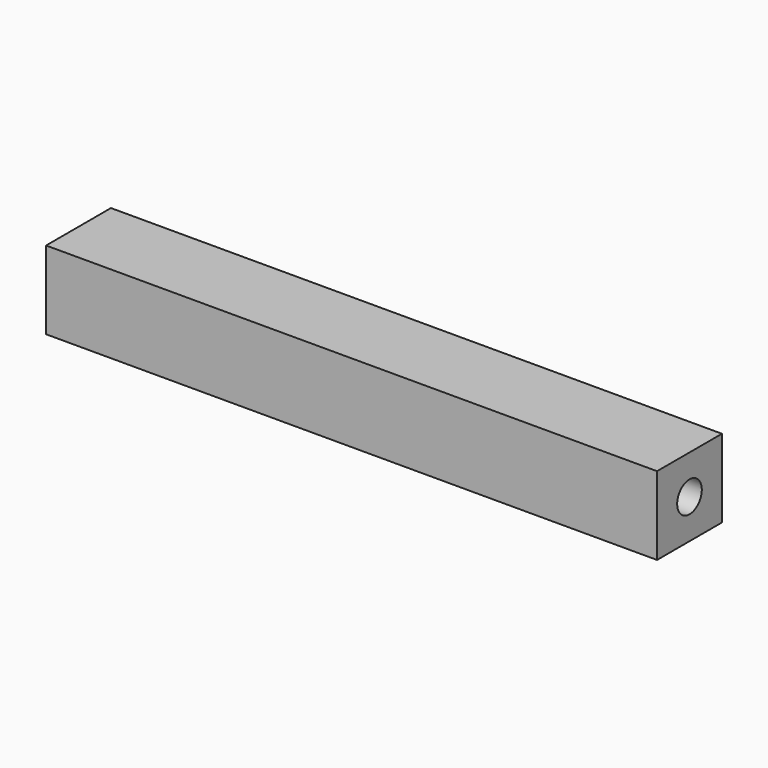
from build123d import *

# Parameters (mm, degrees)
F0_W     = 21.07011
F0_H     = 20.310826
F0_R     = 4
F1_DEPTH = 79.375


with BuildPart() as f1:
    # F0 (on Right) → F1 (new body, symmetric)
    with BuildSketch(Plane.YZ):
        Rectangle(F0_W, F0_H)
        Circle(F0_R, mode=Mode.SUBTRACT)
    extrude(amount=F1_DEPTH, both=True)


solid = f1.part
